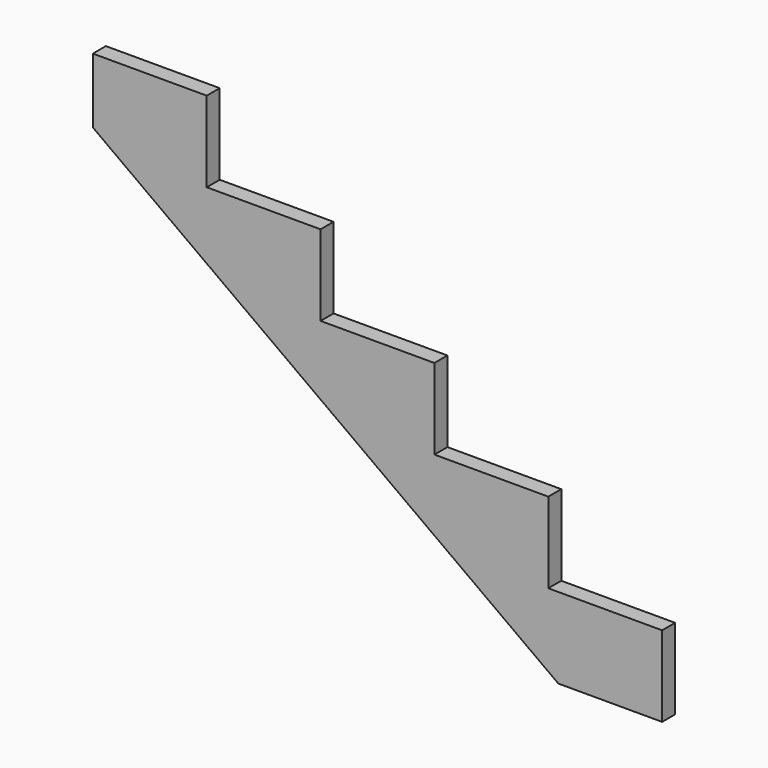
from build123d import *

# Parameters (mm, degrees)
F1_DEPTH = 19.05


with BuildPart() as f1:
    # F0 (on Front) → F1 (new body, symmetric)
    with BuildSketch(Plane.XZ):
        Polygon((266.7, 944.5625), (0, 944.5625), (0, 792.1625), (1090.318143, 0), (1333.5, 0), (1333.5, 188.9125), (1066.8, 188.9125), (1066.8, 377.825), (800.1, 377.825), (800.1, 566.7375), (533.4, 566.7375), (533.4, 755.65), (266.7, 755.65), align=None)
    extrude(amount=F1_DEPTH, both=True)


solid = f1.part
